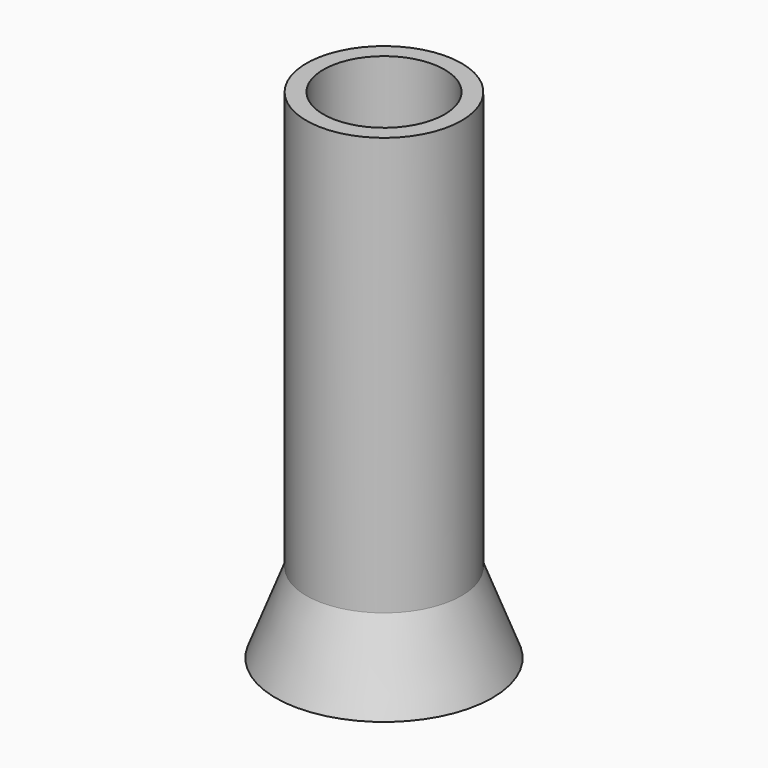
from build123d import *


with BuildPart() as f1:
    # F0 (on Front) → F1 (revolve)
    with BuildSketch(Plane.XZ):
        with BuildLine():
            Line((0, 0.5), (0, 0))
            Line((0, 0), (5.090845, 0))
            Line((5.090845, 0), (3.648385, 3.758758))
            Line((3.648385, 3.758758), (3.648385, 23.414107))
            Line((3.648385, 23.414107), (2.848385, 23.414107))
            Line((2.848385, 23.414107), (2.848385, 6.187791))
            ThreePointArc((2.848385, 6.187791), (2.515769, 4.217827), (1.554799, 2.466277))
            Line((1.554799, 2.466277), (0, 0.5))
        make_face()
    revolve(axis=Axis((0, 0, 0.25), (0, 0, -1)))


solid = f1.part
